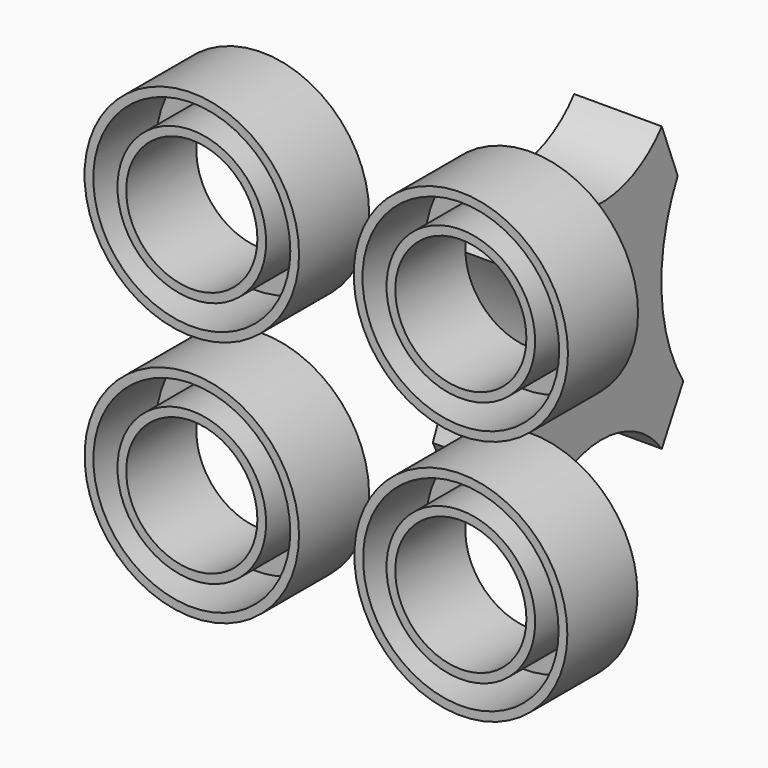
from build123d import *

# Parameters (mm, degrees)
F0_R     = 31.0963465333
F0_R_2   = 19.0147929062
F1_DEPTH = 25.4
F0_R_3   = 31.0576997313
F0_R_4   = 19.0060845025
F0_R_5   = 30.8811703894
F0_R_6   = 19.0147950206
F0_R_7   = 31.0843529762
F0_R_8   = 19.0147914683
F2_T     = -2.54
F2_2_T   = -2.54
F2_3_T   = -2.54
F2_4_T   = -2.54
F4_DEPTH = 25.4


with BuildPart() as f1:
    # F0 (on Front) → F1 (new body)
    with BuildSketch(Plane.XZ):
        with Locations((-38.2781662047, 37.4147482216)):
            Circle(F0_R)
        with Locations((-38.2781662047, 37.4147482216)):
            Circle(F0_R_2, mode=Mode.SUBTRACT)
    extrude(amount=F1_DEPTH)

    # F2
    f2_openings = [f1.faces().sort_by_distance(p)[0] for p in [
        (-68.494975, -25.4, 37.414748),
    ]]
    offset(amount=F2_T, openings=f2_openings)


with BuildPart() as f1b:
    # F0 (on Front) → F1, piece 2 (new body)
    with BuildSketch(Plane.XZ):
        with Locations((39.7171974182, 37.4147482216)):
            Circle(F0_R_3)
        with Locations((39.7171974182, 37.4147482216)):
            Circle(F0_R_4, mode=Mode.SUBTRACT)
    extrude(amount=F1_DEPTH)

    # F2#2
    f2_2_openings = [f1b.faces().sort_by_distance(p)[0] for p in [
        (9.537942, -25.4, 37.414748),
    ]]
    offset(amount=F2_2_T, openings=f2_2_openings)


with BuildPart() as f1c:
    # F0 (on Front) → F1, piece 3 (new body)
    with BuildSketch(Plane.XZ):
        with Locations((39.7171974182, -34.2488847673)):
            Circle(F0_R_5)
        with Locations((39.7171974182, -34.2488847673)):
            Circle(F0_R_6, mode=Mode.SUBTRACT)
    extrude(amount=F1_DEPTH)

    # F2#3
    f2_3_openings = [f1c.faces().sort_by_distance(p)[0] for p in [
        (9.709478, -25.4, -34.248885),
    ]]
    offset(amount=F2_3_T, openings=f2_3_openings)


with BuildPart() as f1d:
    # F0 (on Front) → F1, piece 4 (new body)
    with BuildSketch(Plane.XZ):
        with Locations((-38.2781662047, -34.2488847673)):
            Circle(F0_R_7)
        with Locations((-38.2781662047, -34.2488847673)):
            Circle(F0_R_8, mode=Mode.SUBTRACT)
    extrude(amount=F1_DEPTH)

    # F2#4
    f2_4_openings = [f1d.faces().sort_by_distance(p)[0] for p in [
        (-68.483321, -25.4, -34.248885),
    ]]
    offset(amount=F2_4_T, openings=f2_4_openings)


with BuildPart() as f4:
    # F3 (on Right) → F4 (new body)
    with BuildSketch(Plane.YZ):
        with BuildLine():
            ThreePointArc((65.3319060802, 43.7464751303), (43.3147661388, 33.0943432266), (21.2976261973, 43.7464751303))
            Line((21.2976261973, 43.7464751303), (11.800034903, 28.7805777043))
            ThreePointArc((11.800034903, 28.7805777043), (19.5648254291, 2.4445360619), (14.1024803743, -24.4634896517))
            Line((14.1024803743, -24.4634896517), (21.2976261973, -39.1415841877))
            ThreePointArc((21.2976261973, -39.1415841877), (43.1640158341, -27.3214138959), (65.3319060802, -38.5659709573))
            Line((65.3319060802, -38.5659709573), (73.1026604772, -24.4634896517))
            ThreePointArc((73.1026604772, -24.4634896517), (65.2055359173, 1.8978491008), (71.0880234838, 28.7805777043))
            Line((71.0880234838, 28.7805777043), (65.3319060802, 43.7464751303))
        make_face()
    extrude(amount=F4_DEPTH)


solid = Compound([f1.part, f1b.part, f1c.part, f1d.part, f4.part])
